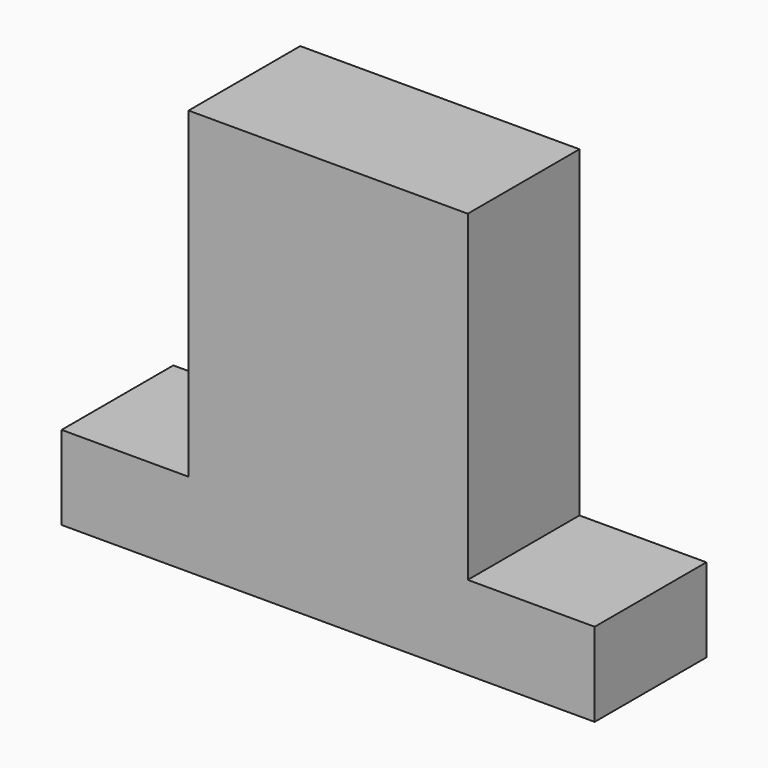
from build123d import *

# Parameters (mm, degrees)
F0_W     = 42
F0_H     = 32
F1_DEPTH = 11
F2_W     = 10
F2_H     = 11
F3_DEPTH = 25.4
F4_DEPTH = 25.4
F7_DEPTH = 1.525342


with BuildPart() as f1:
    # F0 (on Front) → F1 (new body)
    with BuildSketch(Plane.XZ):
        with Locations((-6.920929, -1.405328)):
            Rectangle(F0_W, F0_H)
    extrude(amount=F1_DEPTH)

    # F2 (on face) → F3 (cut)
    with BuildSketch(Plane.XY.offset(14.594672)):
        with Locations((-22.920929, -5.5)):
            Rectangle(F2_W, F2_H)
    extrude(amount=-F3_DEPTH, mode=Mode.SUBTRACT)

    # F2 (on face) → F4 (cut)
    with BuildSketch(Plane.XY.offset(14.594672)):
        with Locations((9.079071, -5.5)):
            Rectangle(F2_W, F2_H)
    extrude(amount=-F4_DEPTH, mode=Mode.SUBTRACT)

    # F6 (on face) → F7 (join)
    with BuildSketch(Plane(origin=(0, 0, 0), x_dir=(-1, 0, 0), z_dir=(0, 1, 0))):
        with BuildLine():
            ThreePointArc((14.309347, 11.993863), (13.754616, 12.312149), (13.150224, 12.521295))
            ThreePointArc((13.150224, 12.521295), (12.905231, 11.705894), (13.101386, 10.877388))
            ThreePointArc((13.101386, 10.877388), (13.439924, 11.24292), (13.917749, 11.384008))
            ThreePointArc((13.917749, 11.384008), (14.074362, 11.714097), (14.309347, 11.993863))
        make_face()
    extrude(amount=-F7_DEPTH)


solid = f1.part
